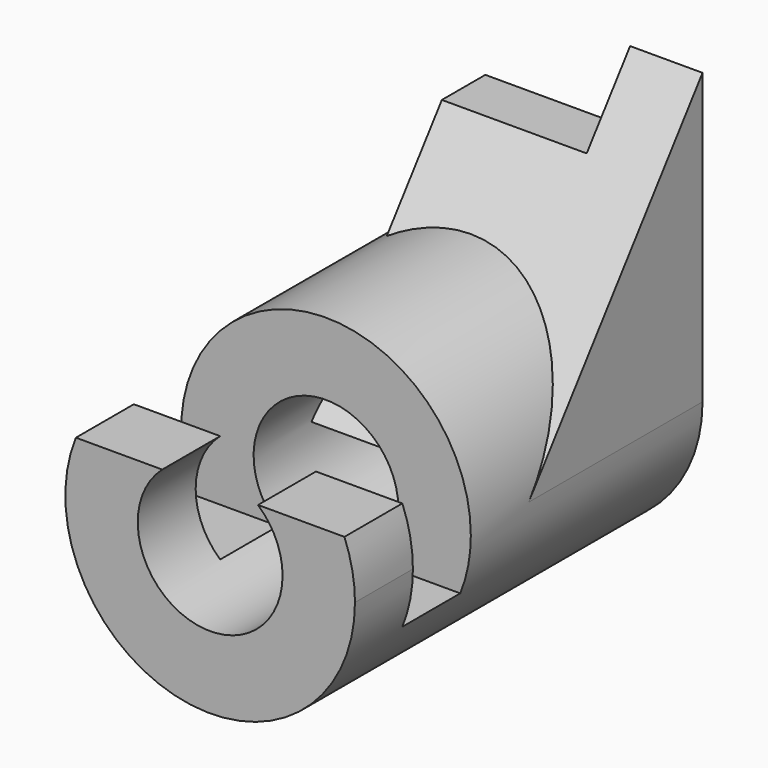
from build123d import *

# Parameters (mm, degrees)
F0_R      = 25.4
F0_R_2    = 12.7
F1_DEPTH  = 76.2
F2_W      = 12.7
F2_H      = 9.525
F2_H_2    = 15.875
F3_DEPTH  = 558.8
F4_W      = 12.7
F4_H      = 9.525
F4_H_2    = 15.875
F5_DEPTH  = 279.4
F7_DEPTH  = 25.4
F9_DEPTH  = 12.7
F10_W     = 25.4
F10_H     = 12.7
F11_DEPTH = 25.4


with BuildPart() as f1:
    # F0 (on Front) → F1 (new body)
    with BuildSketch(Plane.XZ):
        Circle(F0_R)
        Circle(F0_R_2, mode=Mode.SUBTRACT)
    extrude(amount=F1_DEPTH)

    # F2 (on Right) → F3 (cut)
    with BuildSketch(Plane.YZ):
        with Locations((-57.15, -4.7625)):
            Rectangle(F2_W, F2_H)
        Polygon((-63.5, 0), (-50.8, 0), (-50.8, 25.4), (-63.5, 25.4), (-63.5, 9.525), align=None)
        with Locations((-69.85, 17.4625)):
            Rectangle(F2_W, F2_H_2)
    extrude(amount=F3_DEPTH, mode=Mode.SUBTRACT)

    # F4 (on Right) → F5 (cut)
    with BuildSketch(Plane.YZ):
        with Locations((-57.15, -4.7625)):
            Rectangle(F4_W, F4_H)
        Polygon((-63.5, 0), (-50.8, 0), (-50.8, 25.4), (-63.5, 25.4), (-63.5, 9.525), align=None)
        with Locations((-69.85, 17.4625)):
            Rectangle(F4_W, F4_H_2)
    extrude(amount=-F5_DEPTH, mode=Mode.SUBTRACT)

    # F6 (on Right) → F7 (join)
    with BuildSketch(Plane.YZ):
        Polygon((-38.1, 0), (0, 0), (0, 50.8), align=None)
    extrude(amount=F7_DEPTH)

    # F8 (on Right) → F9 (join)
    with BuildSketch(Plane.YZ):
        Polygon((-38.1, 0), (0, 0), (0, 50.8), align=None)
    extrude(amount=-F9_DEPTH)

    # F10 (on face) → F11 (cut)
    with BuildSketch(Plane(origin=(0, 0, 0), x_dir=(-1, 0, 0), z_dir=(0, 1, 0))):
        with Locations((0, 44.45)):
            Rectangle(F10_W, F10_H)
    extrude(amount=-F11_DEPTH, mode=Mode.SUBTRACT)


solid = f1.part
